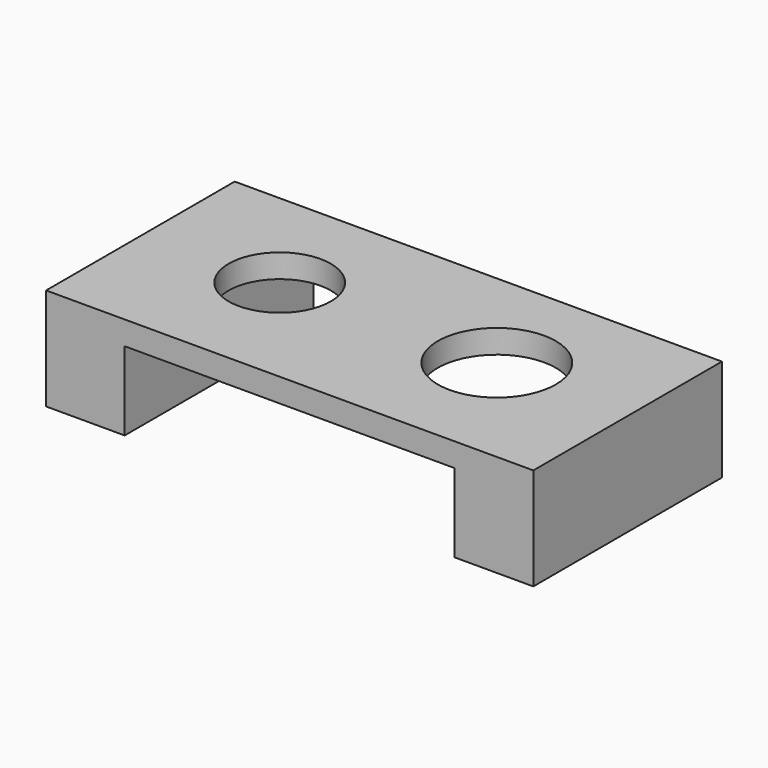
from build123d import *

# Parameters (mm, degrees)
F1_DEPTH = 30
F2_R     = 7.5
F2_R_2   = 6.5
F3_DEPTH = 13.001


with BuildPart() as f1:
    # F0 (on Front) → F1 (new body)
    with BuildSketch(Plane.XZ):
        Polygon((62, 0), (0, 0), (0, -13), (10, -13), (10, -3), (52, -3), (52, -13), (62, -13), align=None)
    extrude(amount=F1_DEPTH)

    # F2 (on face) → F3 (cut, through all)
    with BuildSketch(Plane.XY):
        with Locations((44.698401, -14.177808)):
            Circle(F2_R)
        with Locations((17.072933, -14.177808)):
            Circle(F2_R_2)
    extrude(amount=-F3_DEPTH, mode=Mode.SUBTRACT)


solid = f1.part
